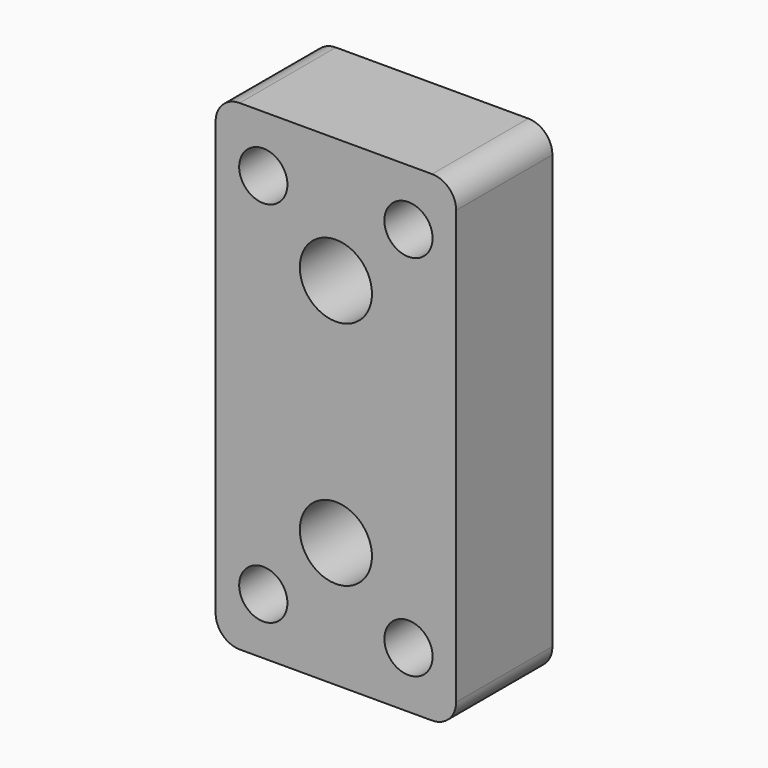
from build123d import *

# Parameters (mm, degrees)
F0_W     = 50.8
F0_H     = 101.6
F0_R     = 7.62
F1_DEPTH = 12.7
F2_R     = 5.08
F3_R     = 5.092996
F4_DEPTH = 25.4


with BuildPart() as f1:
    # F0 (on Front) → F1 (new body, symmetric)
    with BuildSketch(Plane.XZ):
        Rectangle(F0_W, F0_H)
        with Locations((0, -24.378773)):
            Circle(F0_R, mode=Mode.SUBTRACT)
        with Locations((0, 24.378773)):
            Circle(F0_R, mode=Mode.SUBTRACT)
    extrude(amount=F1_DEPTH, both=True)

    # F2
    f2_edges = [f1.edges().sort_by_distance(p)[0] for p in [
        (25.4, 0, 50.8),
        (-25.4, 0, 50.8),
        (25.4, 0, -50.8),
        (-25.4, 0, -50.8),
    ]]
    fillet(f2_edges, radius=F2_R)

    # F3 (on face) → F4 (cut, through all)
    with BuildSketch(Plane.XZ.offset(12.7)):
        with Locations((-15.331865, 38.888112)):
            Circle(F3_R)
        with Locations((15.331865, 38.888112)):
            Circle(F3_R)
        with Locations((15.331865, -38.888112)):
            Circle(F3_R)
        with Locations((-15.331865, -38.888112)):
            Circle(F3_R)
    extrude(amount=-F4_DEPTH, mode=Mode.SUBTRACT)


solid = f1.part
